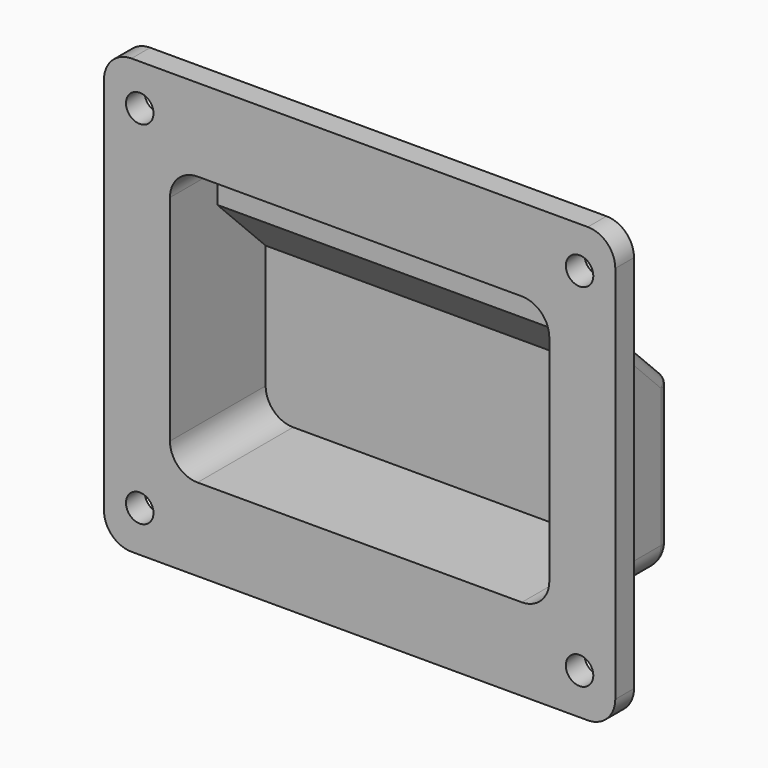
from build123d import *

# Parameters (mm, degrees)
F0_W     = 93
F0_H     = 79
F0_R     = 2.5
F0_W_2   = 69
F0_H_2   = 49
F1_DEPTH = 4.25
F2_W     = 74
F2_H     = 54
F2_W_2   = 69
F2_H_2   = 49
F3_DEPTH = 20
F6_DEPTH = 83.501
F8_DEPTH = 71.5
F9_R     = 5
F10_R    = 2


with BuildPart() as f1:
    # F0 (on Front) → F1 (new body)
    with BuildSketch(Plane.XZ):
        Rectangle(F0_W, F0_H)
        with Locations((-40, -32)):
            Circle(F0_R, mode=Mode.SUBTRACT)
        with Locations((40, -32)):
            Circle(F0_R, mode=Mode.SUBTRACT)
        with Locations((-40, 32)):
            Circle(F0_R, mode=Mode.SUBTRACT)
        Rectangle(F0_W_2, F0_H_2, mode=Mode.SUBTRACT)
        with Locations((40, 32)):
            Circle(F0_R, mode=Mode.SUBTRACT)
    extrude(amount=-F1_DEPTH)

    # F2 (on face) → F3 (join)
    with BuildSketch(Plane(origin=(0, 4.25, 0), x_dir=(-1, 0, 0), z_dir=(0, 1, 0))):
        Rectangle(F2_W, F2_H)
        Rectangle(F2_W_2, F2_H_2, mode=Mode.SUBTRACT)
    extrude(amount=F3_DEPTH)

    # F5 (on face) → F6 (cut, through all)
    with BuildSketch(Plane.YZ.offset(37)):
        Polygon((24.25, 29.4060515452), (13.25, 29.4060515452), (13.25, 15), (24.25, 4), align=None)
    extrude(amount=-F6_DEPTH, mode=Mode.SUBTRACT)

    # F7 (on face) → F8 (join, through all)
    with BuildSketch(Plane.YZ.offset(37)):
        Polygon((13.25, 27), (10.75, 27), (10.75, 13.9644660941), (21.75, 2.9644660941), (21.75, -27), (24.25, -27), (24.25, 4), (13.25, 15), align=None)
    extrude(amount=-F8_DEPTH)

    # F9
    f9_edges = [f1.edges().sort_by_distance(p)[0] for p in [
        (37, 14.25, -27),
        (37, 8.75, 27),
        (-37, 8.75, 27),
        (-37, 14.25, -27),
        (-46.5, 2.125, 39.5),
        (-46.5, 2.125, -39.5),
        (46.5, 2.125, 39.5),
        (46.5, 2.125, -39.5),
        (-34.5, 5.375, 24.5),
        (34.5, 5.375, 24.5),
        (34.5, 10.875, -24.5),
        (-34.5, 10.875, -24.5),
    ]]
    fillet(f9_edges, radius=F9_R)

    # F10
    f10_edges = [f1.edges().sort_by_distance(p)[0] for p in [
        (37, 13.25, 18.5),
        (37, 18.75, 9.5),
        (37, 24.25, -9),
        (-37, 18.75, 9.5),
        (0, 13.25, 27),
        (0, 24.25, -27),
        (-37, 24.25, -9),
        (-37, 13.25, 18.5),
        (0, 24.25, 4),
        (0, 13.25, 15),
    ]]
    fillet(f10_edges, radius=F10_R)


solid = f1.part
